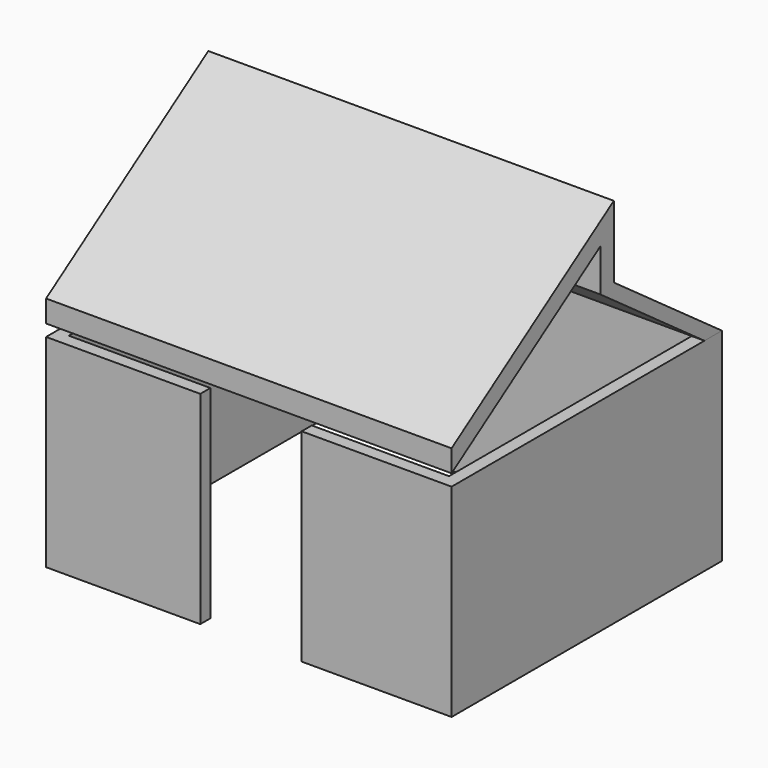
from build123d import *

# Parameters (mm, degrees)
F0_W     = 3657.6
F0_H     = 3048
F0_W_2   = 3429
F0_H_2   = 2819.4
F1_DEPTH = 1828.8
F3_DEPTH = 3657.6
F4_W     = 914.4
F4_H     = 1828.8
F5_DEPTH = 114.3


with BuildPart() as f1:
    # F0 (on Top) → F1 (new body)
    with BuildSketch(Plane.XY):
        Rectangle(F0_W, F0_H)
        Rectangle(F0_W_2, F0_H_2, mode=Mode.SUBTRACT)
    extrude(amount=F1_DEPTH)

    # F4 (on face) → F5 (cut, through all)
    with BuildSketch(Plane.XZ.offset(1524)):
        with Locations((19.087383, 914.4)):
            Rectangle(F4_W, F4_H)
    extrude(amount=-F5_DEPTH, mode=Mode.SUBTRACT)


with BuildPart() as f3:
    # F2 (on face) → F3 (new body)
    with BuildSketch(Plane.YZ.offset(1828.8)):
        Polygon((1524, 1828.8), (304.8, 2706.639945), (304.8, 3355.565093), (-1524, 2133.6), (-1524, 1934.992569), (152.4, 3055.127237), (152.4, 2674.355627), (1326.761485, 1828.8), align=None)
    extrude(amount=-F3_DEPTH)


solid = Compound([f1.part, f3.part])
